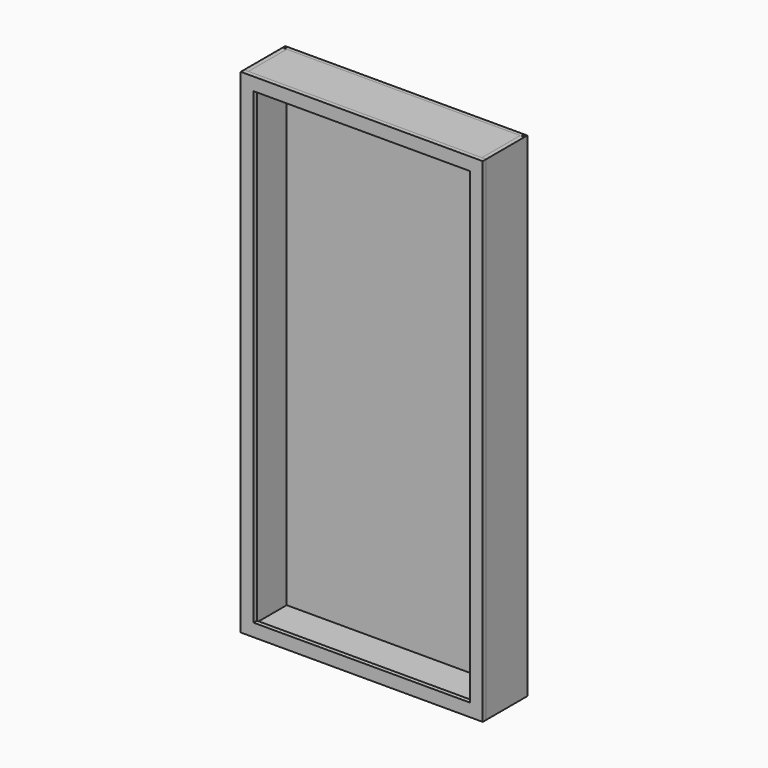
from build123d import *

# Parameters (mm, degrees)
F0_W     = 1076.325
F0_H     = 228.6
F1_DEPTH = 19.05
F4_DEPTH = 2176.4625
F5_W     = 1038.225
F5_H     = 212.880746
F6_DEPTH = 25.4
F7_W     = 1076.325
F7_H     = 2195.5125
F7_W_2   = 962.025
F7_H_2   = 2081.2125
F8_DEPTH = 19.05


with BuildPart() as f1:
    # F0 (on Top) → F1 (new body)
    with BuildSketch(Plane.XY):
        with Locations((0, 114.3)):
            Rectangle(F0_W, F0_H)
    extrude(amount=F1_DEPTH)

    # F3 (on face) → F4 (join)
    with BuildSketch(Plane.XY.offset(19.05)):
        Polygon((0, 228.6), (0, 212.880746), (519.1125, 212.880746), (525.817874, 212.880746), (525.817874, 220.50783), (528.6375, 220.50783), (531.457126, 220.50783), (531.457126, 212.880746), (538.1625, 212.880746), (538.1625, 228.6), align=None)
        Polygon((-538.1625, 228.6), (-538.1625, 212.880746), (-531.457126, 212.880746), (-531.457126, 220.50783), (-528.6375, 220.50783), (-525.817874, 220.50783), (-525.817874, 212.880746), (-519.1125, 212.880746), (0, 212.880746), (0, 228.6), align=None)
        Polygon((-538.1625, 209.55), (-538.1625, 0), (-519.1125, 0), (-519.1125, 209.55), (-519.1125, 212.880746), (-525.817874, 212.880746), (-531.457126, 212.880746), (-538.1625, 212.880746), align=None)
        Polygon((519.1125, 209.55), (519.1125, 0), (538.1625, 0), (538.1625, 212.880746), (531.457126, 212.880746), (525.817874, 212.880746), (519.1125, 212.880746), align=None)
    extrude(amount=F4_DEPTH)


with BuildPart() as f6:
    # F5 (on face) → F6 (new body)
    with BuildSketch(Plane.XY.offset(2195.5125)):
        with Locations((0, 106.440373)):
            Rectangle(F5_W, F5_H)
    extrude(amount=-F6_DEPTH)


with BuildPart() as f8:
    # F7 (on face) → F8 (new body)
    with BuildSketch(Plane.XZ):
        with Locations((0, 1097.75625)):
            Rectangle(F7_W, F7_H)
        with Locations((0, 1097.75625)):
            Rectangle(F7_W_2, F7_H_2, mode=Mode.SUBTRACT)
    extrude(amount=F8_DEPTH)


solid = Compound([f1.part, f6.part, f8.part])
